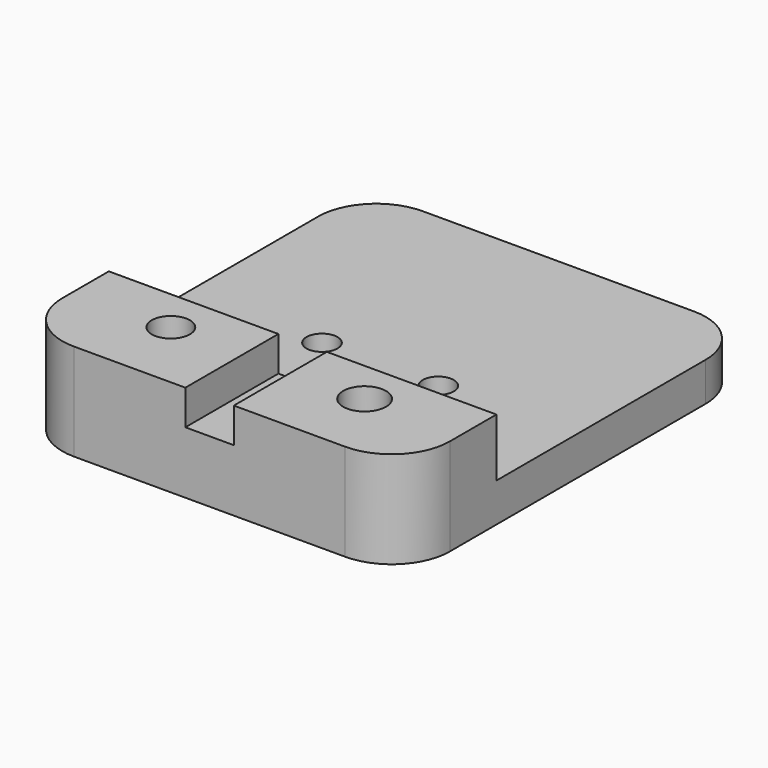
from build123d import *

# Parameters (mm, degrees)
SKETCH_W        = 40
SKETCH_H        = 45
PAD_DEPTH       = 10
SKETCH001_R     = 1.971831
SKETCH001_R_2   = 2.210302
POCKET_DEPTH    = 10
SKETCH002_W     = 40
SKETCH002_H     = 33
POCKET001_DEPTH = 6
SKETCH003_R     = 1.6
POCKET002_DEPTH = 5
SKETCH004_W     = 5
SKETCH004_H     = 12.28172
POCKET003_DEPTH = 3.6
FILLET_R        = 6


with BuildPart() as part:
    # Sketch → Pad (new body)
    with BuildSketch(Plane.XY):
        with Locations((20, 22.5)):
            Rectangle(SKETCH_W, SKETCH_H)
    extrude(amount=PAD_DEPTH)

    # Sketch001 (on Face6 of Pad) → Pocket (cut)
    with BuildSketch(Plane.XY.offset(10)):
        with Locations((10, 7.5)):
            Circle(SKETCH001_R)
        with Locations((30, 7.5)):
            Circle(SKETCH001_R_2)
    extrude(amount=-POCKET_DEPTH, mode=Mode.SUBTRACT)

    # Sketch002 (on Face5 of Pocket) → Pocket001 (cut)
    with BuildSketch(Plane.XY.offset(10)):
        with Locations((20, 28.5)):
            Rectangle(SKETCH002_W, SKETCH002_H)
    extrude(amount=-POCKET001_DEPTH, mode=Mode.SUBTRACT)

    # Sketch003 (on Face7 of Pocket001) → Pocket002 (cut)
    with BuildSketch(Plane.XY.offset(4)):
        with Locations((14, 21.999999)):
            Circle(SKETCH003_R)
        with Locations((26, 22)):
            Circle(SKETCH003_R)
    extrude(amount=-POCKET002_DEPTH, mode=Mode.SUBTRACT)

    # Sketch004 (on Face5 of Pocket002) → Pocket003 (cut)
    with BuildSketch(Plane.XY.offset(10)):
        with Locations((20, 6.14086)):
            Rectangle(SKETCH004_W, SKETCH004_H)
    extrude(amount=-POCKET003_DEPTH, mode=Mode.SUBTRACT)

    # Fillet
    fillet_edges = [part.edges().sort_by_distance(p)[0] for p in [
        (40, 0, 5),
        (0, 0, 5),
        (40, 45, 2),
        (0, 45, 2),
    ]]
    fillet(fillet_edges, radius=FILLET_R)


solid = part.part
